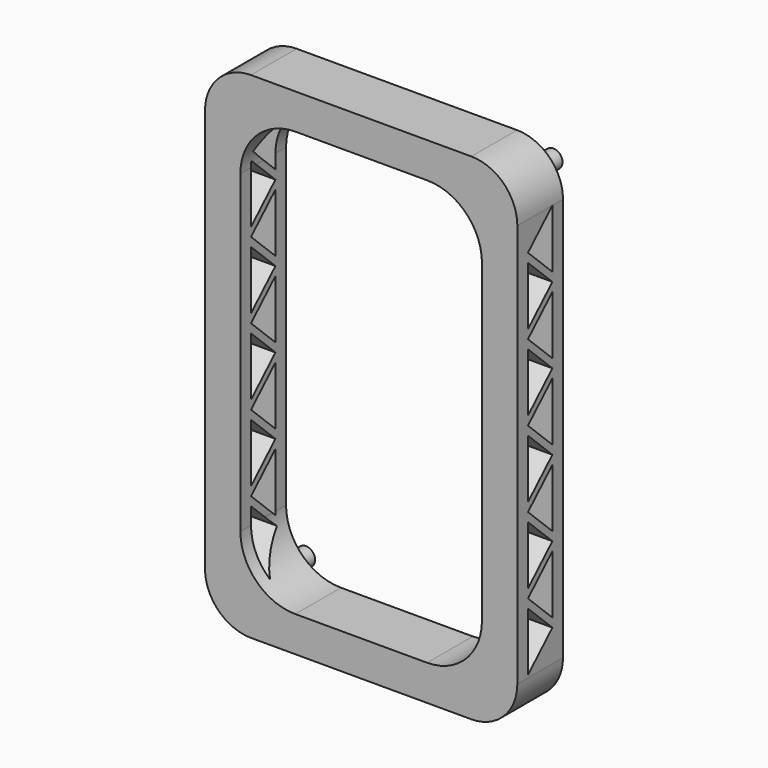
from build123d import *

# Parameters (mm, degrees)
F0_R          = 1.036
F1_DEPTH      = 3.225
F2_DEPTH      = 6.45
F2_DEPTH_BACK = 3.225
F4_DEPTH      = 35.301


with BuildPart() as f1:
    # F0 (on Front) → F1 (new body, symmetric)
    with BuildSketch(Plane.XZ):
        with BuildLine():
            Line((17.65, -23.6598229316), (17.65, 21.9401770684))
            ThreePointArc((17.65, 21.9401770684), (16.1269552622, 25.6171323306), (12.45, 27.1401770684))
            Line((12.45, 27.1401770684), (-12.45, 27.1401770684))
            ThreePointArc((-12.45, 27.1401770684), (-16.1269552622, 25.6171323306), (-17.65, 21.9401770684))
            Line((-17.65, 21.9401770684), (-17.65, -23.6598229316))
            ThreePointArc((-17.65, -23.6598229316), (-16.1269552622, -27.3367781937), (-12.45, -28.8598229316))
            Line((-12.45, -28.8598229316), (12.45, -28.8598229316))
            ThreePointArc((12.45, -28.8598229316), (16.1269552622, -27.3367781937), (17.65, -23.6598229316))
        make_face()
        with Locations((-13.9805086528, -25.1903315843)):
            Circle(F0_R, mode=Mode.SUBTRACT)
        with Locations((13.9805086528, -25.1903315843)):
            Circle(F0_R, mode=Mode.SUBTRACT)
        with Locations((-13.9805086528, 23.4706857212)):
            Circle(F0_R, mode=Mode.SUBTRACT)
        with BuildLine():
            ThreePointArc((-7.45, -24.8598229316), (-11.8340620434, -23.0438849749), (-13.65, -18.6598229316))
            Line((-13.65, -18.6598229316), (-13.65, 16.9401770684))
            ThreePointArc((-13.65, 16.9401770684), (-11.8340620434, 21.3242391118), (-7.45, 23.1401770684))
            Line((-7.45, 23.1401770684), (7.45, 23.1401770684))
            ThreePointArc((7.45, 23.1401770684), (11.8340620434, 21.3242391118), (13.65, 16.9401770684))
            Line((13.65, 16.9401770684), (13.65, -18.6598229316))
            ThreePointArc((13.65, -18.6598229316), (11.8340620434, -23.0438849749), (7.45, -24.8598229316))
            Line((7.45, -24.8598229316), (-7.45, -24.8598229316))
        make_face(mode=Mode.SUBTRACT)
        with Locations((13.9805086528, 23.4706857212)):
            Circle(F0_R, mode=Mode.SUBTRACT)
    extrude(amount=F1_DEPTH, both=True)

    # F0 (on Front) → F2 (join, two sides)
    with BuildSketch(Plane.XZ) as f2_sk:
        with Locations((-13.9805086528, 23.4706857212)):
            Circle(F0_R)
        with Locations((-13.9805086528, -25.1903315843)):
            Circle(F0_R)
        with Locations((13.9805086528, 23.4706857212)):
            Circle(F0_R)
        with Locations((13.9805086528, -25.1903315843)):
            Circle(F0_R)
    extrude(amount=-F2_DEPTH)
    extrude(f2_sk.sketch, amount=F2_DEPTH_BACK)

    # F3 (on face) → F4 (cut, through all)
    with BuildSketch(Plane.YZ.offset(17.65)):
        Polygon((1.725, 21.9401770684), (-1.725, 18.6401770684), (1.725, 15.3401770684), align=None)
        Polygon((-1.725, 11.0401770684), (1.725, 14.3401770684), (-1.725, 17.6401770684), align=None)
        Polygon((1.725, 6.7401770684), (1.725, 13.3401770684), (-1.725, 10.0401770684), align=None)
        Polygon((-1.725, 9.0401770684), (-1.725, 2.4401770684), (1.725, 5.7401770684), align=None)
        Polygon((1.725, 4.7401770684), (-1.725, 1.4401770684), (1.725, -1.8598229316), align=None)
        Polygon((-1.725, -6.1598229316), (1.725, -2.8598229316), (-1.725, 0.4401770684), align=None)
        Polygon((1.725, -3.8598229316), (-1.725, -7.1598229316), (1.725, -10.4598229316), align=None)
        Polygon((-1.725, -14.7598229316), (1.725, -11.4598229316), (-1.725, -8.1598229316), align=None)
        Polygon((1.725, -12.4598229316), (-1.725, -15.7598229316), (1.725, -19.0598229316), align=None)
        Polygon((1.725, -20.0598229316), (-1.725, -16.7598229316), (-1.725, -23.3598229316), align=None)
    extrude(amount=-F4_DEPTH, mode=Mode.SUBTRACT)


solid = f1.part
